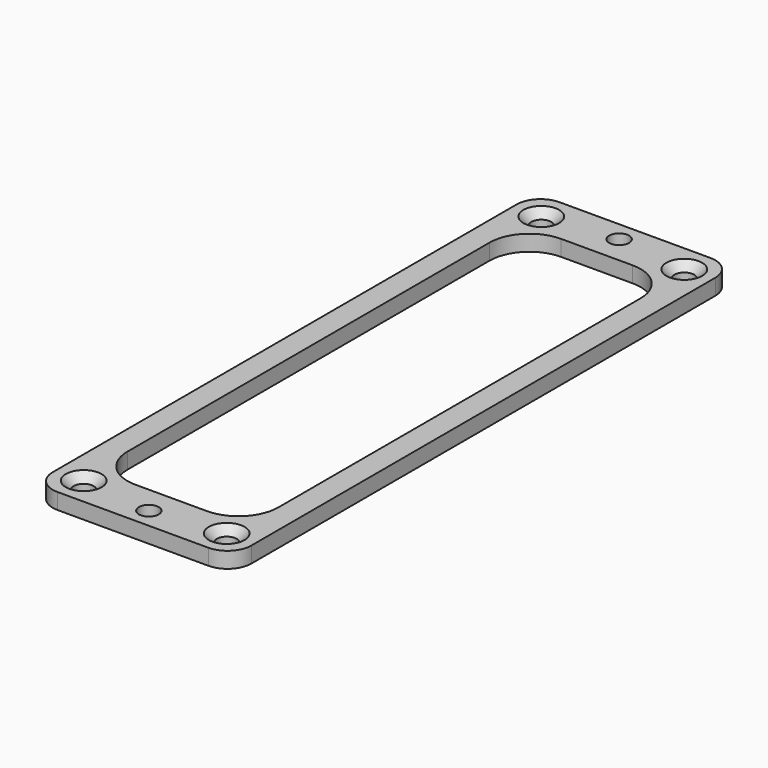
from build123d import *

# Parameters (mm, degrees)
F0_R     = 1.25
F1_DEPTH = 1
F2_SIZE  = 1


with BuildPart() as f1:
    # F0 (on Top) → F1 (new body, symmetric)
    with BuildSketch(Plane.XY):
        with BuildLine():
            Line((9.5, 39.5), (-9.5, 39.5))
            ThreePointArc((-9.5, 39.5), (-11.62132, 38.62132), (-12.5, 36.5))
            Line((-12.5, 36.5), (-12.5, -36.5))
            ThreePointArc((-12.5, -36.5), (-11.62132, -38.62132), (-9.5, -39.5))
            Line((-9.5, -39.5), (9.5, -39.5))
            ThreePointArc((9.5, -39.5), (11.62132, -38.62132), (12.5, -36.5))
            Line((12.5, -36.5), (12.5, 36.5))
            ThreePointArc((12.5, 36.5), (11.62132, 38.62132), (9.5, 39.5))
        make_face()
        with Locations((-9, -36)):
            Circle(F0_R, mode=Mode.SUBTRACT)
        with Locations((0, -37)):
            Circle(F0_R, mode=Mode.SUBTRACT)
        with Locations((9, -36)):
            Circle(F0_R, mode=Mode.SUBTRACT)
        with BuildLine():
            ThreePointArc((-9.5, 28.5), (-8.035534, 32.035534), (-4.5, 33.5))
            Line((-4.5, 33.5), (4.5, 33.5))
            ThreePointArc((4.5, 33.5), (8.035534, 32.035534), (9.5, 28.5))
            Line((9.5, 28.5), (9.5, -28.5))
            ThreePointArc((9.5, -28.5), (8.035534, -32.035534), (4.5, -33.5))
            Line((4.5, -33.5), (-4.5, -33.5))
            ThreePointArc((-4.5, -33.5), (-8.035534, -32.035534), (-9.5, -28.5))
            Line((-9.5, -28.5), (-9.5, 28.5))
        make_face(mode=Mode.SUBTRACT)
        with Locations((-9, 36)):
            Circle(F0_R, mode=Mode.SUBTRACT)
        with Locations((0, 37)):
            Circle(F0_R, mode=Mode.SUBTRACT)
        with Locations((9, 36)):
            Circle(F0_R, mode=Mode.SUBTRACT)
    extrude(amount=F1_DEPTH, both=True)

    # F2
    f2_edges = [f1.edges().sort_by_distance(p)[0] for p in [
        (-10.25, 36, 1),
        (7.75, 36, 1),
        (7.75, -36, 1),
        (-10.25, -36, 1),
    ]]
    chamfer(f2_edges, length=F2_SIZE)


solid = f1.part
